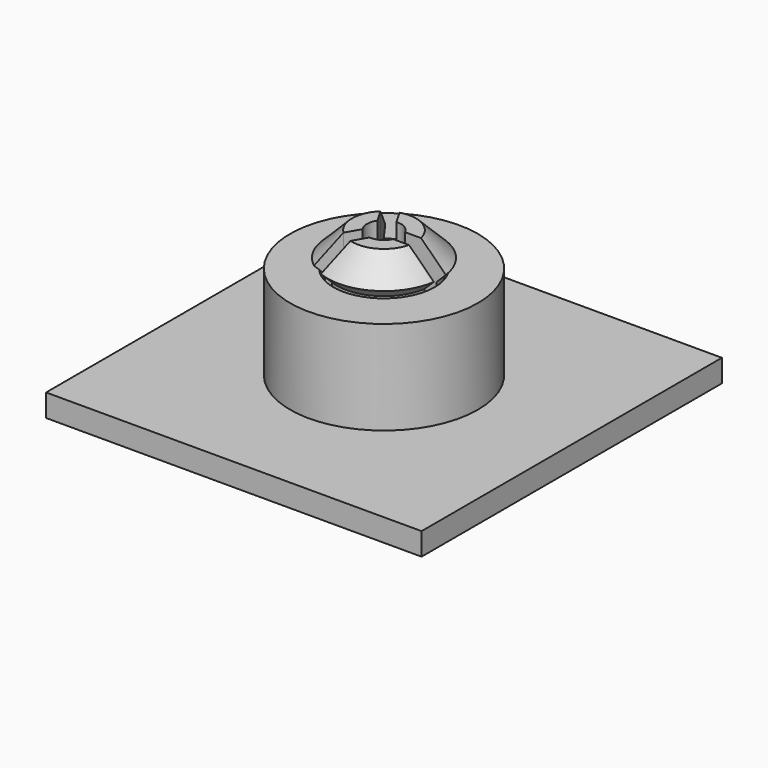
from build123d import *

# Parameters (mm, degrees)
F0_W     = 25.4
F0_H     = 25.4
F1_DEPTH = 1.524
F5_DEPTH = 8.636
F6_R     = 6.35
F6_R_2   = 3.429
F7_DEPTH = 6.35


with BuildPart() as f1:
    # F0 (on Top) → F1 (new body)
    with BuildSketch(Plane.XY):
        Rectangle(F0_W, F0_H)
    extrude(amount=F1_DEPTH)

    # F2 (on Front) → F3 (revolve)
    with BuildSketch(Plane.XZ):
        Polygon((1.143, 10.16), (1.143, 0), (3.175, 0), (3.175, 7.874), (3.81, 8.509), (2.159, 10.16), align=None)
    revolve(axis=Axis((0, 0, 7.7160834335), (0, 0, 1)))

    # F4 (on face) → F5 (cut, through all)
    with BuildSketch(Plane.XY.offset(10.16)):
        with BuildLine():
            ThreePointArc((2.159, 0), (2.1437925358, -0.2558018049), (2.0983843785, -0.508))
            Line((2.0983843785, -0.508), (6.35, -0.508))
            Line((6.35, -0.508), (6.35, 0.508))
            Line((6.35, 0.508), (2.0983843785, 0.508))
            ThreePointArc((2.0983843785, 0.508), (2.1437925358, 0.2558018049), (2.159, 0))
        make_face()
        with BuildLine():
            ThreePointArc((1.143, 0), (1.1128284677, -0.2608865683), (1.023906734, -0.508))
            Line((1.023906734, -0.508), (2.0983843785, -0.508))
            ThreePointArc((2.0983843785, -0.508), (2.1437925358, -0.2558018049), (2.159, 0))
            ThreePointArc((2.159, 0), (2.1437925358, 0.2558018049), (2.0983843785, 0.508))
            Line((2.0983843785, 0.508), (1.023906734, 0.508))
            ThreePointArc((1.023906734, 0.508), (1.1128284677, 0.2608865683), (1.143, 0))
        make_face()
        with BuildLine():
            Line((-0.0720124619, -1.1407292428), (0.2932939367, -0.508))
            Line((0.2932939367, -0.508), (1.023906734, -0.508))
            ThreePointArc((1.023906734, -0.508), (1.1128284677, -0.2608865683), (1.143, 0))
            ThreePointArc((1.143, 0), (1.1128284677, 0.2608865683), (1.023906734, 0.508))
            Line((1.023906734, 0.508), (0.2932939367, 0.508))
            Line((0.2932939367, 0.508), (-0.0720124619, 1.1407292428))
            ThreePointArc((-0.0720124619, 1.1407292428), (-0.5715, 0.9898670365), (-0.9518942721, 0.6327292428))
            Line((-0.9518942721, 0.6327292428), (-0.5865878735, 0))
            Line((-0.5865878735, 0), (-0.9518942721, -0.6327292428))
            ThreePointArc((-0.9518942721, -0.6327292428), (-0.5715, -0.9898670365), (-0.0720124619, -1.1407292428))
        make_face()
        with BuildLine():
            Line((-0.6092512841, -2.0712541787), (-0.0720124619, -1.1407292428))
            ThreePointArc((-0.0720124619, -1.1407292428), (-0.5715, -0.9898670365), (-0.9518942721, -0.6327292428))
            Line((-0.9518942721, -0.6327292428), (-1.4891330944, -1.5632541787))
            ThreePointArc((-1.4891330944, -1.5632541787), (-1.0795, -1.8697488468), (-0.6092512841, -2.0712541787))
        make_face()
        with BuildLine():
            Line((-2.7350590949, -5.753261314), (-0.6092512841, -2.0712541787))
            ThreePointArc((-0.6092512841, -2.0712541787), (-1.0795, -1.8697488468), (-1.4891330944, -1.5632541787))
            Line((-1.4891330944, -1.5632541787), (-3.6149409051, -5.245261314))
            Line((-3.6149409051, -5.245261314), (-2.7350590949, -5.753261314))
        make_face()
        with BuildLine():
            Line((-3.6149409051, 5.245261314), (-1.4891330944, 1.5632541787))
            ThreePointArc((-1.4891330944, 1.5632541787), (-1.0795, 1.8697488468), (-0.6092512841, 2.0712541787))
            Line((-0.6092512841, 2.0712541787), (-2.7350590949, 5.753261314))
            Line((-2.7350590949, 5.753261314), (-3.6149409051, 5.245261314))
        make_face()
        with BuildLine():
            Line((-1.4891330944, 1.5632541787), (-0.9518942721, 0.6327292428))
            ThreePointArc((-0.9518942721, 0.6327292428), (-0.5715, 0.9898670365), (-0.0720124619, 1.1407292428))
            Line((-0.0720124619, 1.1407292428), (-0.6092512841, 2.0712541787))
            ThreePointArc((-0.6092512841, 2.0712541787), (-1.0795, 1.8697488468), (-1.4891330944, 1.5632541787))
        make_face()
    extrude(amount=-F5_DEPTH, mode=Mode.SUBTRACT)


with BuildPart() as f7:
    # F6 (on face) → F7 (new body)
    with BuildSketch(Plane.XY.offset(1.524)):
        Circle(F6_R)
        Circle(F6_R_2, mode=Mode.SUBTRACT)
    extrude(amount=F7_DEPTH)


solid = Compound([f1.part, f7.part])
